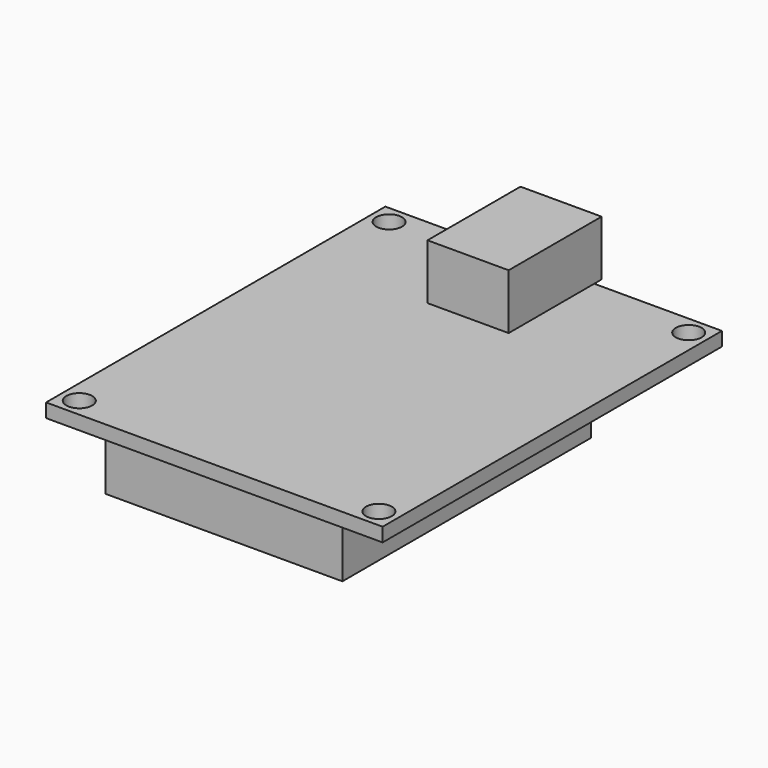
from build123d import *

# Parameters (mm, degrees)
F0_W     = 36.5
F0_H     = 46
F0_R     = 1.4
F1_DEPTH = 1.5
F2_W     = 8.8
F2_H     = 12.6
F3_DEPTH = 6
F4_W     = 25.7
F4_H     = 33.7
F5_DEPTH = 6


with BuildPart() as f1:
    # F0 (on Top) → F1 (new body)
    with BuildSketch(Plane.XY):
        with Locations((-18.25, 23)):
            Rectangle(F0_W, F0_H)
        with Locations((-34.5, 2)):
            Circle(F0_R, mode=Mode.SUBTRACT)
        with Locations((-2, 2)):
            Circle(F0_R, mode=Mode.SUBTRACT)
        with Locations((-34.5, 44)):
            Circle(F0_R, mode=Mode.SUBTRACT)
        with Locations((-2, 44)):
            Circle(F0_R, mode=Mode.SUBTRACT)
    extrude(amount=F1_DEPTH)

    # F2 (on face) → F3 (join)
    with BuildSketch(Plane.XY.offset(1.5)):
        with Locations((-18.25, 40.7)):
            Rectangle(F2_W, F2_H)
    extrude(amount=F3_DEPTH)

    # F4 (on face) → F5 (join)
    with BuildSketch(Plane(origin=(0, 0, 0), x_dir=(1, 0, 0), z_dir=(0, 0, -1))):
        with Locations((-18.25, -18.15)):
            Rectangle(F4_W, F4_H)
    extrude(amount=F5_DEPTH)


solid = f1.part
